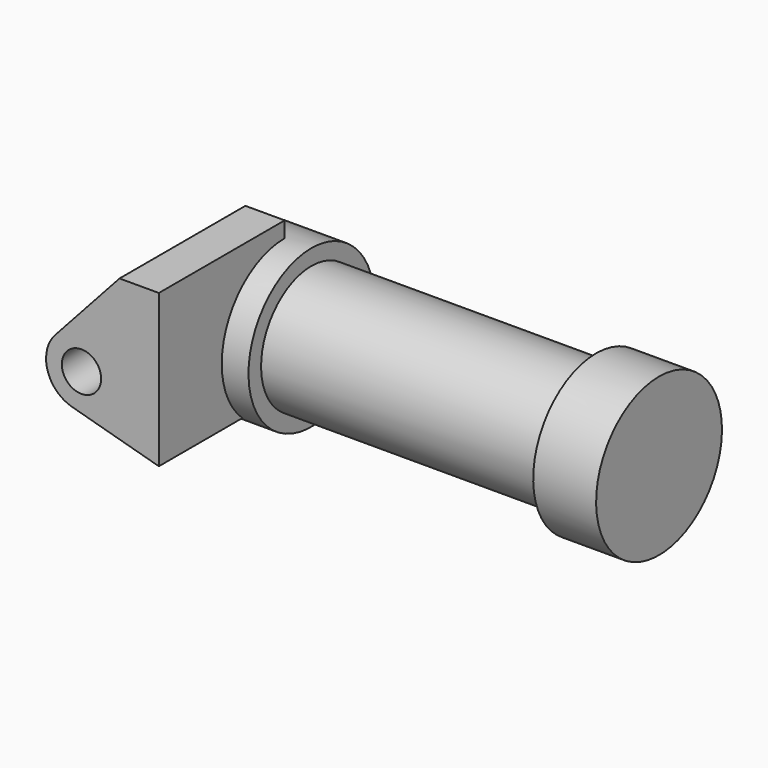
from build123d import *

# Parameters (mm, degrees)
F0_W     = 5.842
F0_H     = 12.7
F0_R     = 3.175
F2_DEPTH = 25.4


with BuildPart() as f1:
    # F0 (on Front) → F1 (revolve)
    with BuildSketch(Plane.XZ):
        with Locations((2.921, 6.35)):
            Rectangle(F0_W, F0_H)
        Polygon((5.842, 12.7), (5.842, 0), (66.294, 0), (66.294, 12.7), (56.134, 12.7), (56.134, 10.16), (10.16, 10.16), (10.16, 12.7), align=None)
    revolve(axis=Axis((33.147, 0, 0), (-1, 0, 0)))

    # F0 (on Front) → F2 (join)
    with BuildSketch(Plane.XZ):
        with BuildLine():
            Line((-0.9398, 0), (0, 0))
            Line((0, 0), (0, 12.7))
            Line((0, 12.7), (5.842, 12.7))
            Line((5.842, 12.7), (5.842, 15.24))
            Line((5.842, 15.24), (-0.508, 15.24))
            Line((-0.508, 15.24), (-10.88063, 3.847543))
            ThreePointArc((-10.88063, 3.847543), (-4.591961, 5.329721), (-0.9398, 0))
        make_face()
        with BuildLine():
            ThreePointArc((-8.182663, -5.506983), (-3.195791, -4.549339), (-0.9398, 0))
            ThreePointArc((-0.9398, 0), (-4.591961, 5.329721), (-10.88063, 3.847543))
            ThreePointArc((-10.88063, 3.847543), (-12.145978, -1.583727), (-8.182663, -5.506983))
        make_face()
        with Locations((-6.6548, 0)):
            Circle(F0_R, mode=Mode.SUBTRACT)
        with BuildLine():
            Line((5.842, 0), (0, 0))
            Line((0, 0), (-0.9398, 0))
            ThreePointArc((-0.9398, 0), (-3.195791, -4.549339), (-8.182663, -5.506983))
            Line((-8.182663, -5.506983), (5.842, -9.398))
            Line((5.842, -9.398), (5.842, 0))
        make_face()
        with Locations((2.921, 6.35)):
            Rectangle(F0_W, F0_H)
    extrude(amount=F2_DEPTH)


solid = f1.part
